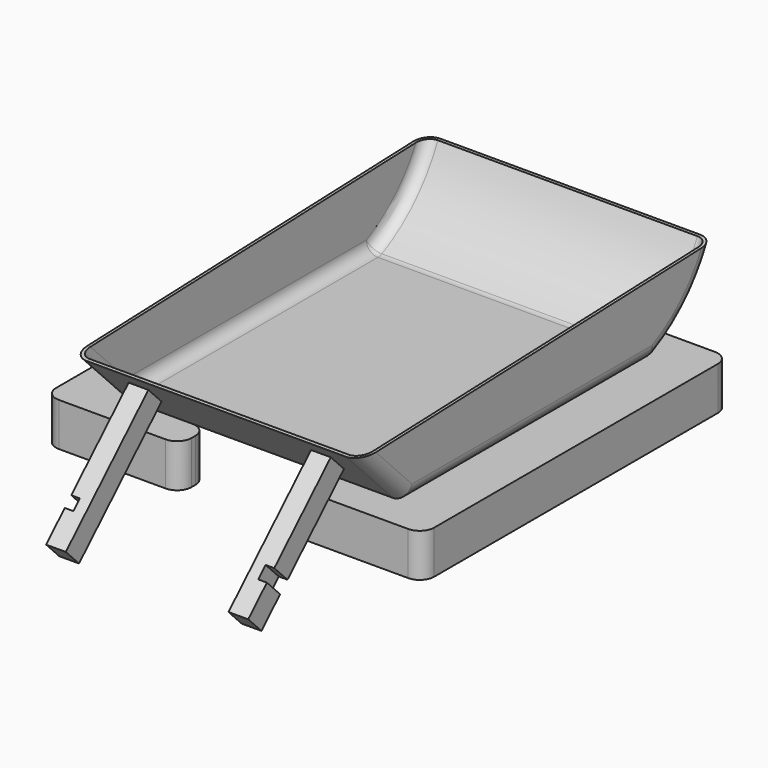
from build123d import *

# Parameters (mm, degrees)
F1_DEPTH  = 100
F2_R      = 5
F3_T      = -1
F5_DEPTH  = 15
F6_R      = 5
F6_2_R    = 5
F7_W      = 6.8386495113
F7_H      = 8.2063823938
F8_DEPTH  = 50
F10_DEPTH = 3
F12_DEPTH = 3


with BuildPart() as f1:
    # F0 (on Right) → F1 (new body)
    with BuildSketch(Plane.YZ):
        with BuildLine():
            Line((-62.2228905559, 0), (43.8739794223, 0))
            ThreePointArc((43.8739794223, 0), (44.978569759, 0.1235381486), (46.0285764776, 0.4880479248))
            ThreePointArc((46.0285764776, 0.4880479248), (60.824511036, 11.1110867731), (71.0152611136, 26.2080151588))
            Line((71.0152611136, 26.2080151588), (-82.5129672885, 20.7973290235))
            Line((-82.5129672885, 20.7973290235), (-62.2228905559, 0))
        make_face()
    extrude(amount=F1_DEPTH)

    # F2
    f2_edges = [f1.edges().sort_by_distance(p)[0] for p in [
        (100, -72.367929, 10.398665),
        (100, -9.174456, 0),
        (0, 60.824511, 11.111087),
        (0, -72.367929, 10.398665),
    ]]
    fillet(f2_edges, radius=F2_R)

    # F3
    f3_openings = [f1.faces().sort_by_distance(p)[0] for p in [
        (50, -5.736741, 23.503099),
    ]]
    offset(amount=F3_T, openings=f3_openings)

    # F7 (on face) → F8 (join)
    with BuildSketch(Plane(origin=(0, -31.8795126034, -31.1019629584), x_dir=(1, 0, 0), z_dir=(0, -0.7157819546, -0.6983238457))):
        with Locations((18.8841372728, 60.8858540654)):
            Rectangle(F7_W, F7_H)
        with Locations((82.1416676044, 60.8858540654)):
            Rectangle(F7_W, F7_H)
    extrude(amount=F8_DEPTH)

    # F9 (on face) → F10 (cut)
    with BuildSketch(Plane.YZ.offset(85.5609923601)):
        Polygon((-101.7513151599, -8.475101115), (-104.9485136509, -11.5943190991), (-99.2178011386, -17.4682995294), (-96.0206026476, -14.3490815453), align=None)
    extrude(amount=-F10_DEPTH, mode=Mode.SUBTRACT)

    # F11 (on face) → F12 (cut)
    with BuildSketch(Plane(origin=(15.4648125172, 0, 0), x_dir=(0, -1, 0), z_dir=(-1, 0, 0))):
        Polygon((104.9486428403, -11.5944451375), (102.1422585039, -8.8565092486), (96.4115459916, -14.7304896789), (99.217930328, -17.4684255678), align=None)
    extrude(amount=-F12_DEPTH, mode=Mode.SUBTRACT)


with BuildPart() as f5:
    # F4 (on face) → F5 (new body)
    with BuildSketch(Plane(origin=(0, 0, 0), x_dir=(1, 0, 0), z_dir=(0, 0, -1))):
        Polygon((95, -43.8739794223), (67.7029747336, -43.8739794223), (67.7029747336, -59.1343878611), (114.7029747336, -59.1343878611), (114.7029747336, 73.8656121389), (67.7029747336, 73.8656121389), (67.7029747336, 62.2228905559), (95, 62.2228905559), align=None)
    extrude(amount=F5_DEPTH)

    # F6
    f6_edges = [f5.edges().sort_by_distance(p)[0] for p in [
        (114.702975, -73.865612, -7.5),
        (114.702975, 59.134388, -7.5),
        (67.702975, 59.134388, -7.5),
        (67.702975, -73.865612, -7.5),
        (95, -62.222891, -7.5),
        (95, 43.873979, -7.5),
        (67.702975, 43.873979, -7.5),
        (67.702975, -62.222891, -7.5),
    ]]
    fillet(f6_edges, radius=F6_R)


with BuildPart() as f5b:
    # F4 (on face) → F5, piece 2 (new body)
    with BuildSketch(Plane(origin=(0, 0, 0), x_dir=(1, 0, 0), z_dir=(0, 0, -1))):
        Polygon((-16.4328367253, -59.1343878611), (30.5671632747, -59.1343878611), (30.5671632747, -43.8739794223), (5, -43.8739794223), (5, 62.2228905559), (30.5671632747, 62.2228905559), (30.5671632747, 73.8656121389), (-16.4328367253, 73.8656121389), align=None)
    extrude(amount=F5_DEPTH)

    # F6#2
    f6_2_edges = [f5b.edges().sort_by_distance(p)[0] for p in [
        (-16.432837, -73.865612, -7.5),
        (-16.432837, 59.134388, -7.5),
        (30.567163, 59.134388, -7.5),
        (30.567163, -73.865612, -7.5),
        (5, -62.222891, -7.5),
        (5, 43.873979, -7.5),
        (30.567163, 43.873979, -7.5),
        (30.567163, -62.222891, -7.5),
    ]]
    fillet(f6_2_edges, radius=F6_2_R)


solid = Compound([f1.part, f5.part, f5b.part])
